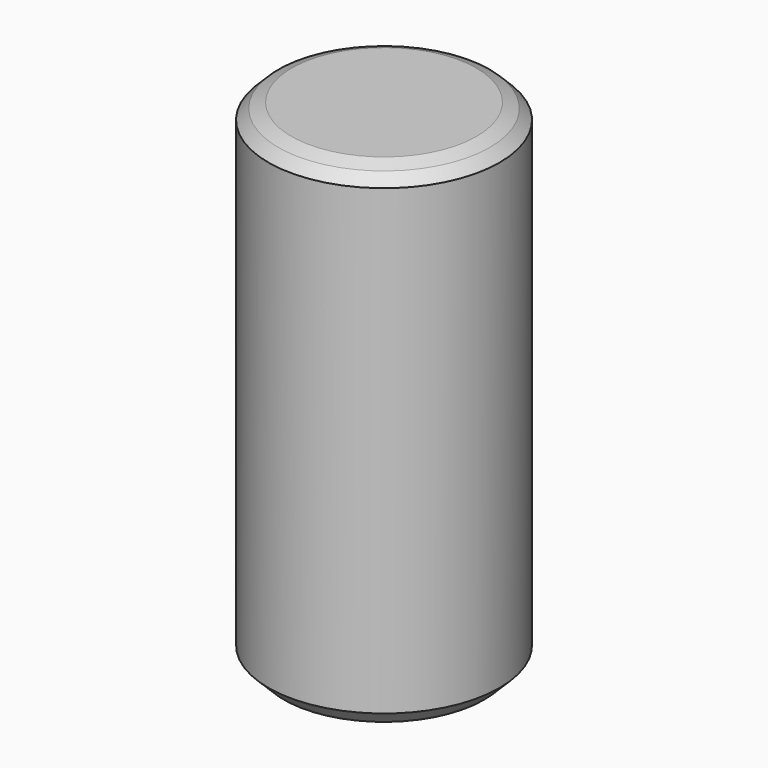
from build123d import *

# Parameters (mm, degrees)
F0_R     = 15
F1_DEPTH = 32
F2_SIZE  = 2
F3_SIZE  = 1


with BuildPart() as f1:
    # F0 (on Top) → F1 (new body, symmetric)
    with BuildSketch(Plane.XY):
        with Locations((95, 0)):
            Circle(F0_R)
    extrude(amount=F1_DEPTH, both=True)

    # F2
    f2_edges = [f1.edges().sort_by_distance(p)[0] for p in [
        (80, 0, 32),
        (80, 0, -32),
    ]]
    chamfer(f2_edges, length=F2_SIZE)

    # F3
    f3_edges = [f1.edges().sort_by_distance(p)[0] for p in [
        (82, 0, 32),
    ]]
    chamfer(f3_edges, length=F3_SIZE)


with BuildPart() as f1_1:
    # F4: moved
    add(f1.part.moved(Location((0, 0, 40))))


solid = f1_1.part
